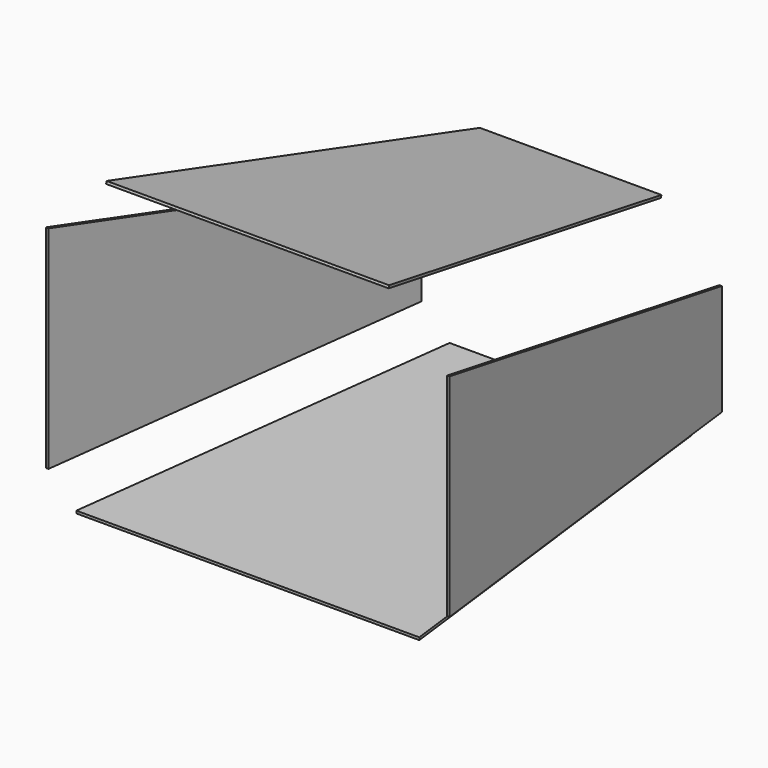
from build123d import *

# Parameters (mm, degrees)
F5_DEPTH  = 2.5
F8_DEPTH  = 2.5
F11_DEPTH = 2.5
F14_DEPTH = 2.5


with BuildPart() as f5:
    # F4 (on face) → F5 (new body)
    with BuildSketch(Plane(origin=(0, 35.294118, 141.176471), x_dir=(1, 0, 0), z_dir=(0, -0.242536, -0.970143))):
        Polygon((90, -375.930219), (140, 36.380344), (-140, 36.380344), (-90, -375.930219), align=None)
    extrude(amount=F5_DEPTH)


with BuildPart() as f8:
    # F7 (on face) → F8 (new body)
    with BuildSketch(Plane(origin=(196.923077, 24.615385, 0), x_dir=(0.124035, -0.992278, 0), z_dir=(-0.992278, -0.124035, 0))):
        Polygon((24.806947, -120), (24.806947, 90), (-378.30594, -10), (-378.30594, -120), align=None)
    extrude(amount=F8_DEPTH)


with BuildPart() as f11:
    # F10 (on face) → F11 (new body)
    with BuildSketch(Plane(origin=(-196.923077, 24.615385, 0), x_dir=(0.124035, 0.992278, 0), z_dir=(0.992278, -0.124035, 0))):
        Polygon((378.30594, -120), (378.30594, -10), (-24.806947, 90), (-24.806947, -120), align=None)
    extrude(amount=F11_DEPTH)


with BuildPart() as f14:
    # F13 (on face) → F14 (new body)
    with BuildSketch(Plane(origin=(0, 0, -150), x_dir=(1, 0, 0), z_dir=(0, 0, -1))):
        Polygon((-170, 0), (-120, -400), (120, -400), (170, 0), align=None)
    extrude(amount=-F14_DEPTH)


solid = Compound([f5.part, f8.part, f11.part, f14.part])
